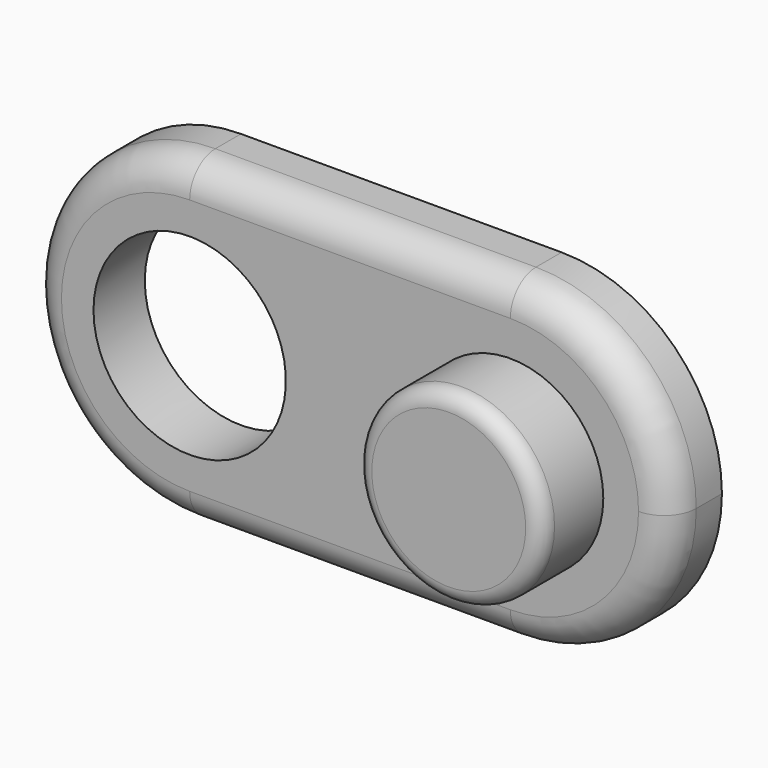
from build123d import *

# Parameters (mm, degrees)
F1_DEPTH = 1.27
F2_R     = 0.635
F4_R     = 1.8415
F5_DEPTH = 1.524
F7_D     = 3.81
F8_R     = 0.3175


with BuildPart() as f1:
    # F0 (on Front) → F1 (new body)
    with BuildSketch(Plane.XZ):
        with BuildLine():
            ThreePointArc((3.175, 3.175), (0.929936, 2.245064), (0, 0))
            ThreePointArc((0, 0), (0.929936, -2.245064), (3.175, -3.175))
            ThreePointArc((3.175, -3.175), (5.420064, -2.245064), (6.35, 0))
            ThreePointArc((6.35, 0), (5.420064, 2.245064), (3.175, 3.175))
        make_face()
        with BuildLine():
            ThreePointArc((3.175, -3.175), (0.929936, -2.245064), (0, 0))
            ThreePointArc((0, 0), (-0.929936, -2.245064), (-3.175, -3.175))
            Line((-3.175, -3.175), (3.175, -3.175))
        make_face()
        with BuildLine():
            ThreePointArc((-3.175, -3.175), (-0.929936, -2.245064), (0, 0))
            ThreePointArc((0, 0), (-0.929936, 2.245064), (-3.175, 3.175))
            ThreePointArc((-3.175, 3.175), (-6.35, 0), (-3.175, -3.175))
        make_face()
        with BuildLine():
            ThreePointArc((-3.175, 3.175), (-0.929936, 2.245064), (0, 0))
            ThreePointArc((0, 0), (0.929936, 2.245064), (3.175, 3.175))
            Line((3.175, 3.175), (-3.175, 3.175))
        make_face()
    extrude(amount=F1_DEPTH)

    # F2
    f2_edges = [f1.edges().sort_by_distance(p)[0] for p in [
        (0, -1.27, 3.175),
        (-6.35, -1.27, 0),
        (6.35, -1.27, 0),
        (0, -1.27, -3.175),
    ]]
    fillet(f2_edges, radius=F2_R)

    # F4 (on face) → F5 (join)
    with BuildSketch(Plane.XZ.offset(1.27)):
        with Locations((3.175, 0)):
            Circle(F4_R)
    extrude(amount=F5_DEPTH)

    # F7 (through all)
    with Locations(Plane.XZ.offset(1.27)):
        with Locations((-3.175, 0)):
            Hole(F7_D / 2)

    # F8
    f8_edges = [f1.edges().sort_by_distance(p)[0] for p in [
        (1.3335, -2.794, 0),
    ]]
    fillet(f8_edges, radius=F8_R)


solid = f1.part
